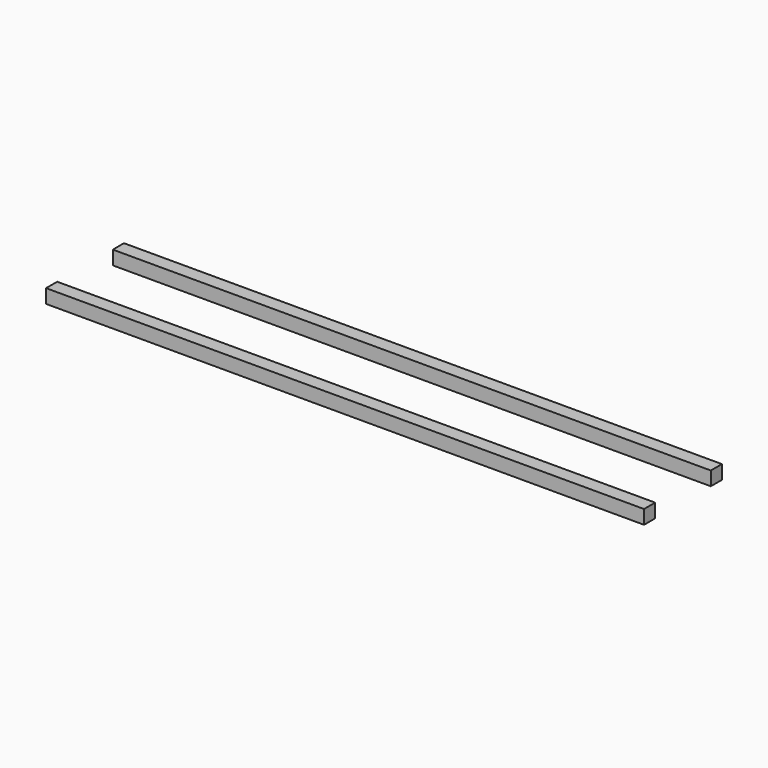
from build123d import *

# Parameters (mm, degrees)
BOX002_W     = 430
BOX002_H     = 10
BOX002_DEPTH = 10
BOX003_W     = 430
BOX003_H     = 10
BOX003_DEPTH = 10


with BuildPart() as cube002:
    # Box002 → Box002 (new body)
    with BuildSketch(Plane(origin=(65, -5, 25), x_dir=(1, 0, 0), z_dir=(0, 0, 1))):
        with Locations((215, 5)):
            Rectangle(BOX002_W, BOX002_H)
    extrude(amount=BOX002_DEPTH)


with BuildPart() as fusion:
    # Box003 → Box003 (new body)
    with BuildSketch(Plane(origin=(65, -65, 25), x_dir=(1, 0, 0), z_dir=(0, 0, 1))):
        with Locations((215, 5)):
            Rectangle(BOX003_W, BOX003_H)
    extrude(amount=BOX003_DEPTH)

    # Fusion: union Cube002
    add(cube002.part)


with BuildPart() as fusion_1:
    # Fusion placement: moved
    add(fusion.part.moved(Location((0, 22, 0))))


solid = fusion_1.part
